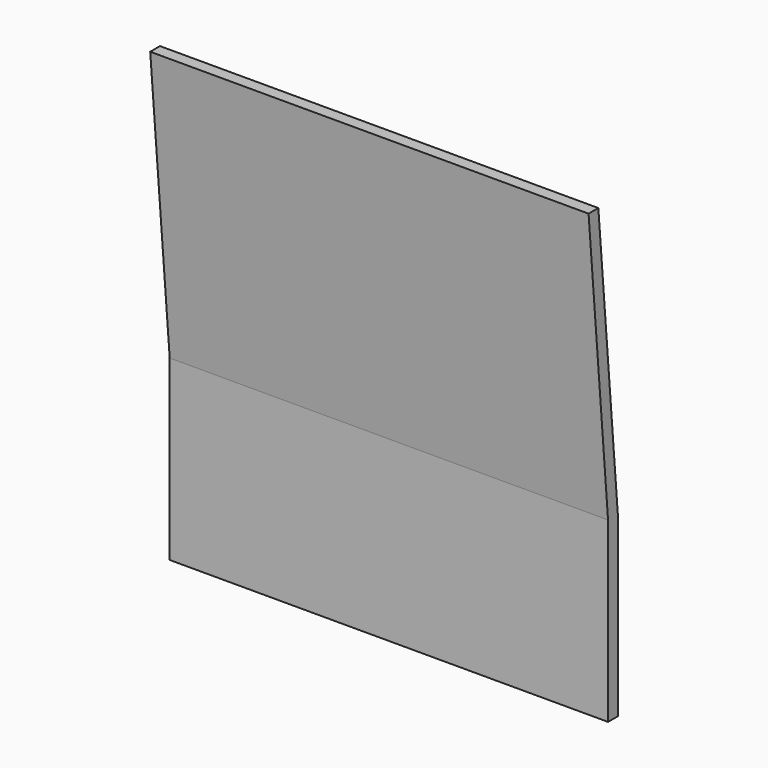
from build123d import *

# Parameters (mm, degrees)
F1_DEPTH      = 900
F1_DEPTH_BACK = 900


with BuildPart() as f1:
    # F0 (on Right) → F1 (new body, two sides)
    with BuildSketch(Plane.YZ) as f1_sk:
        Polygon((0, 730), (0, 0), (50, 0), (50, 732.173585), (-49.810663, 1878), (-100, 1878), align=None)
    extrude(amount=F1_DEPTH)
    extrude(f1_sk.sketch, amount=-F1_DEPTH_BACK)


solid = f1.part
